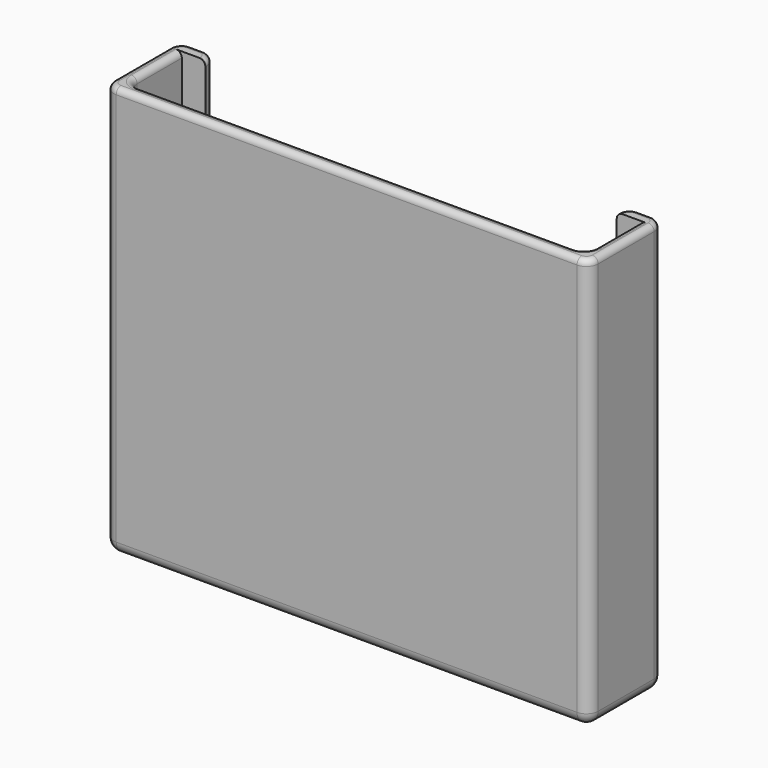
from build123d import *

# Parameters (mm, degrees)
F1_DEPTH = 70
F3_DEPTH = 3
F4_R     = 2
F5_R     = 1


with BuildPart() as f1:
    # F0 (on Top) → F1 (new body)
    with BuildSketch(Plane.XY):
        Polygon((-41.2, 0), (0, 0), (0, 2.2), (-39, 2.2), (-39, 13.7), (-35, 13.7), (-35, 15.9), (-41.2, 15.9), align=None)
        Polygon((0, 2.2), (0, 0), (41.2, 0), (41.2, 14.6), (41.2, 15.9), (35, 15.9), (35, 13.7), (39, 13.7), (39, 2.2), align=None)
        Polygon((0, 2.2), (0, 0), (41.2, 0), (41.2, 14.6), (41.2, 15.9), (35, 15.9), (35, 13.7), (39, 13.7), (39, 2.2), align=None)
    extrude(amount=F1_DEPTH)

    # F2 (on face) → F3 (join)
    with BuildSketch(Plane.XY):
        Polygon((0, 0), (41.2, 0), (41.2, 15.9), (-35, 15.9), (-35, 13.7), (-39, 13.7), (-39, 2.2), (0, 2.2), align=None)
        Polygon((-41.2, 0), (0, 0), (0, 2.2), (-39, 2.2), (-39, 13.7), (-35, 13.7), (-35, 15.9), (-41.2, 15.9), align=None)
    extrude(amount=F3_DEPTH)

    # F4
    f4_edges = [f1.edges().sort_by_distance(p)[0] for p in [
        (41.2, 0, 35),
        (41.2, 15.9, 35),
        (35, 15.9, 36.5),
        (39, 2.2, 36.5),
        (-35, 15.9, 36.5),
        (-39, 2.2, 36.5),
        (-41.2, 15.9, 35),
        (-41.2, 0, 35),
        (0, 0, 0),
        (0, 15.9, 0),
        (-41.2, 7.95, 0),
        (41.2, 7.95, 0),
    ]]
    fillet(f4_edges, radius=F4_R)

    # F5
    f5_edges = [f1.edges().sort_by_distance(p)[0] for p in [
        (0, 2.2, 70),
        (0, 0, 70),
    ]]
    fillet(f5_edges, radius=F5_R)


solid = f1.part
